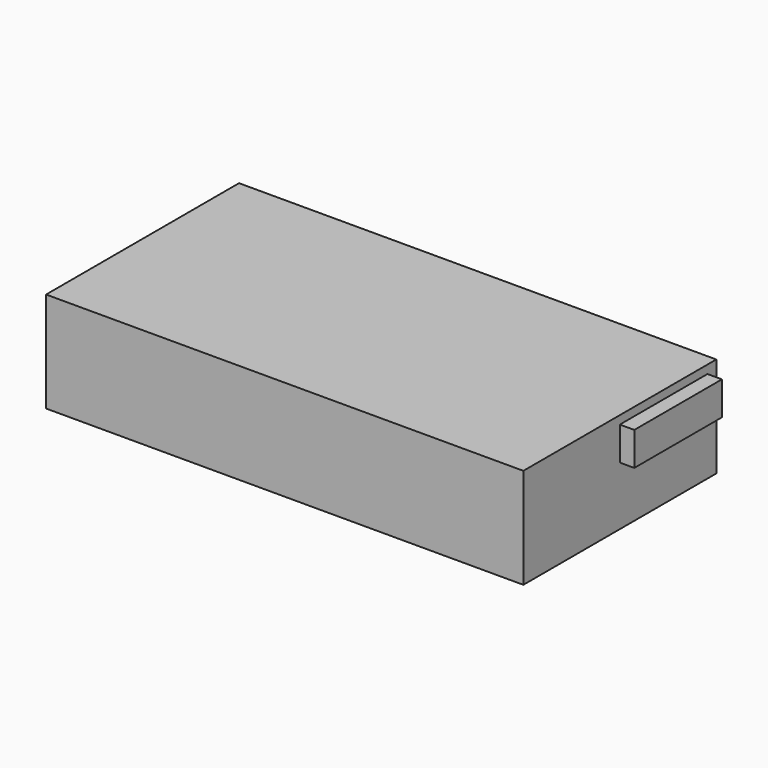
from build123d import *

# Parameters (mm, degrees)
F0_W     = 66
F0_H     = 33.35
F1_DEPTH = 13.88
F2_W     = 15.149038
F2_H     = 4.626867
F3_DEPTH = 2


with BuildPart() as f1:
    # F0 (on Top) → F1 (new body)
    with BuildSketch(Plane.XY):
        Rectangle(F0_W, F0_H)
    extrude(amount=F1_DEPTH)

    # F2 (on face) → F3 (join)
    with BuildSketch(Plane.YZ.offset(33)):
        with Locations((7.574519, 10.418292)):
            Rectangle(F2_W, F2_H)
    extrude(amount=F3_DEPTH)


solid = f1.part
